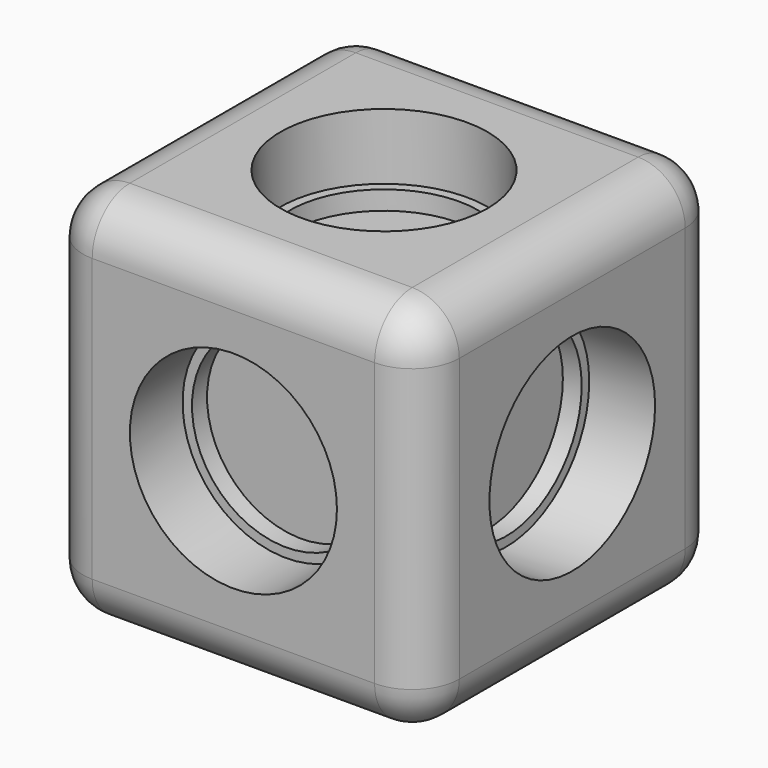
from build123d import *

# Parameters (mm, degrees)
F0_W      = 40
F0_H      = 40
F1_DEPTH  = 40
F2_R      = 5
F3_R      = 11
F4_DEPTH  = 7
F5_R      = 11
F6_DEPTH  = 7
F7_R      = 11
F8_DEPTH  = 7
F9_R      = 11
F10_DEPTH = 7
F11_R     = 11
F12_DEPTH = 7
F13_R     = 11
F14_DEPTH = 7
F15_R     = 10
F16_DEPTH = 2
F17_R     = 10
F18_DEPTH = 2
F19_R     = 10
F20_DEPTH = 2
F21_R     = 10
F22_DEPTH = 2
F23_R     = 10
F24_DEPTH = 2
F25_R     = 10
F26_DEPTH = 2


with BuildPart() as f1:
    # F0 (on Top) → F1 (new body)
    with BuildSketch(Plane.XY):
        with Locations((20, 20)):
            Rectangle(F0_W, F0_H)
    extrude(amount=F1_DEPTH)

    # F2
    f2_edges = [f1.edges().sort_by_distance(p)[0] for p in [
        (40, 20, 40),
        (20, 0, 40),
        (0, 0, 20),
        (40, 0, 20),
        (20, 0, 0),
        (0, 20, 40),
        (20, 40, 40),
        (40, 40, 20),
        (40, 20, 0),
        (20, 40, 0),
        (0, 40, 20),
        (0, 20, 0),
    ]]
    fillet(f2_edges, radius=F2_R)

    # F3 (on face) → F4 (cut)
    with BuildSketch(Plane.XZ):
        with Locations((20, 20)):
            Circle(F3_R)
    extrude(amount=-F4_DEPTH, mode=Mode.SUBTRACT)

    # F5 (on face) → F6 (cut)
    with BuildSketch(Plane(origin=(0, 40, 0), x_dir=(-1, 0, 0), z_dir=(0, 1, 0))):
        with Locations((-20, 20)):
            Circle(F5_R)
    extrude(amount=-F6_DEPTH, mode=Mode.SUBTRACT)

    # F7 (on face) → F8 (cut)
    with BuildSketch(Plane(origin=(0, 0, 0), x_dir=(0, -1, 0), z_dir=(-1, 0, 0))):
        with Locations((-20, 20)):
            Circle(F7_R)
    extrude(amount=-F8_DEPTH, mode=Mode.SUBTRACT)

    # F9 (on face) → F10 (cut)
    with BuildSketch(Plane.YZ.offset(40)):
        with Locations((20, 20)):
            Circle(F9_R)
    extrude(amount=-F10_DEPTH, mode=Mode.SUBTRACT)

    # F11 (on face) → F12 (cut)
    with BuildSketch(Plane(origin=(0, 0, 0), x_dir=(1, 0, 0), z_dir=(0, 0, -1))):
        with Locations((20, -20)):
            Circle(F11_R)
    extrude(amount=-F12_DEPTH, mode=Mode.SUBTRACT)

    # F13 (on face) → F14 (cut)
    with BuildSketch(Plane.XY.offset(40)):
        with Locations((20, 20)):
            Circle(F13_R)
    extrude(amount=-F14_DEPTH, mode=Mode.SUBTRACT)

    # F15 (on face) → F16 (cut)
    with BuildSketch(Plane.XY.offset(33)):
        with Locations((20, 20)):
            Circle(F15_R)
    extrude(amount=-F16_DEPTH, mode=Mode.SUBTRACT)

    # F17 (on face) → F18 (cut)
    with BuildSketch(Plane.XZ.offset(-7)):
        with Locations((20, 20)):
            Circle(F17_R)
    extrude(amount=-F18_DEPTH, mode=Mode.SUBTRACT)

    # F19 (on face) → F20 (cut)
    with BuildSketch(Plane(origin=(0, 0, 7), x_dir=(1, 0, 0), z_dir=(0, 0, -1))):
        with Locations((20, -20)):
            Circle(F19_R)
    extrude(amount=-F20_DEPTH, mode=Mode.SUBTRACT)

    # F21 (on face) → F22 (cut)
    with BuildSketch(Plane(origin=(7, 0, 0), x_dir=(0, -1, 0), z_dir=(-1, 0, 0))):
        with Locations((-20, 20)):
            Circle(F21_R)
    extrude(amount=-F22_DEPTH, mode=Mode.SUBTRACT)

    # F23 (on face) → F24 (cut)
    with BuildSketch(Plane(origin=(0, 33, 0), x_dir=(-1, 0, 0), z_dir=(0, 1, 0))):
        with Locations((-20, 20)):
            Circle(F23_R)
    extrude(amount=-F24_DEPTH, mode=Mode.SUBTRACT)

    # F25 (on face) → F26 (cut)
    with BuildSketch(Plane.YZ.offset(33)):
        with Locations((20, 20)):
            Circle(F25_R)
    extrude(amount=-F26_DEPTH, mode=Mode.SUBTRACT)


solid = f1.part
